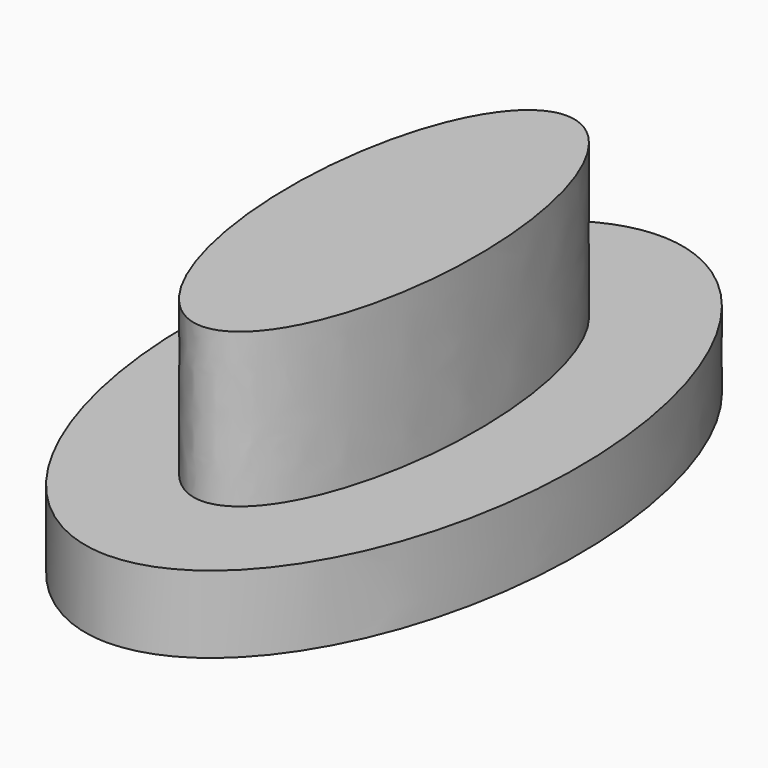
from build123d import *

# Parameters (mm, degrees)
F1_DEPTH = 4
F3_DEPTH = 2


with BuildPart() as f1:
    # F0 (on Top) → F1 (new body)
    with BuildSketch(Plane.XY):
        with BuildLine():
            add(Edge.make_bspline(
                [(0, 5.930396), (-4.212567, 5.930396), (-2.106284, -2.965198), (0, -11.860792), (2.106284, -2.965198), (4.212567, 5.930396), (0, 5.930396)],
                knots=[0, 0, 0, 2.094395, 2.094395, 4.18879, 4.18879, 6.283185, 6.283185, 6.283185], degree=2, weights=[1, 0.5, 1, 0.5, 1, 0.5, 1]))
        make_face()
    extrude(amount=F1_DEPTH)


with BuildPart() as f3:
    # F2 (on Top) → F3 (new body)
    with BuildSketch(Plane.XY):
        with BuildLine():
            add(Edge.make_bspline(
                [(0, -8.991308), (8.742132, -8.991308), (4.371066, 4.495654), (0, 17.982615), (-4.371066, 4.495654), (-8.742132, -8.991308), (0, -8.991308)],
                knots=[0, 0, 0, 2.094395, 2.094395, 4.18879, 4.18879, 6.283185, 6.283185, 6.283185], degree=2, weights=[1, 0.5, 1, 0.5, 1, 0.5, 1]))
        make_face()
    extrude(amount=-F3_DEPTH)


solid = Compound([f1.part, f3.part])
